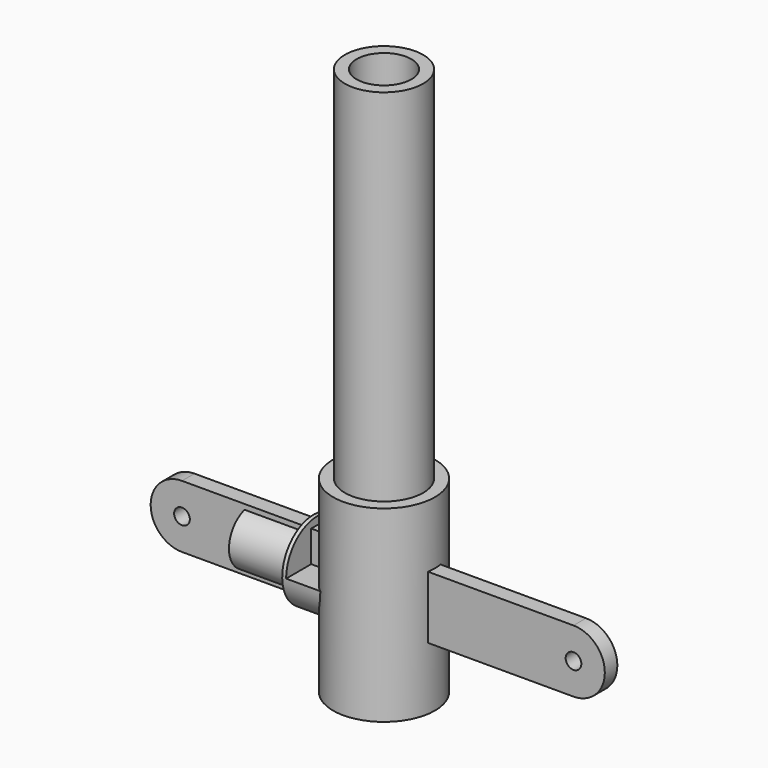
from build123d import *

# Parameters (mm, degrees)
F0_R      = 5
F1_DEPTH  = 58
F2_R      = 3.5
F3_DEPTH  = 55
F4_R      = 1
F5_DEPTH  = 1
F8_W      = 8.5
F8_H      = 6
F9_DEPTH  = 5
F10_R     = 1
F11_DEPTH = 5.001
F12_R     = 6.5
F12_R_2   = 5
F13_DEPTH = 12


with BuildPart() as f1:
    # F0 (on Top) → F1 (new body)
    with BuildSketch(Plane.XY):
        Circle(F0_R)
    extrude(amount=F1_DEPTH)

    # F2 (on face) → F3 (cut)
    with BuildSketch(Plane.XY.offset(58)):
        Circle(F2_R)
    extrude(amount=-F3_DEPTH, mode=Mode.SUBTRACT)


with BuildPart() as f5:
    # F4 (on Front) → F5 (new body, symmetric)
    with BuildSketch(Plane.XZ):
        with BuildLine():
            Line((25, 4), (-25, 4))
            ThreePointArc((-25, 4), (-29, 0), (-25, -4))
            Line((-25, -4), (25, -4))
            ThreePointArc((25, -4), (29, 0), (25, 4))
        make_face()
        with Locations((-25, 0)):
            Circle(F4_R, mode=Mode.SUBTRACT)
        with Locations((25, 0)):
            Circle(F4_R, mode=Mode.SUBTRACT)
    extrude(amount=F5_DEPTH, both=True)


with BuildPart() as f7:
    # F6 (on Front) → F7 (revolve)
    with BuildSketch(Plane.XZ):
        Polygon((-17, 0), (0, 0), (0, 5), (-9, 5), (-9, 3.5), (-17, 3.5), align=None)
    revolve(axis=Axis((-8.5, 0, 0), (1, 0, 0)))

    # F8 (on Front) → F9 (cut, symmetric)
    with BuildSketch(Plane.XZ):
        with Locations((-4.25, 3)):
            Rectangle(F8_W, F8_H)
    extrude(amount=F9_DEPTH, both=True, mode=Mode.SUBTRACT)

    # F10 (on face) → F11 (cut, through all)
    with BuildSketch(Plane.XY):
        with Locations((-4, 0)):
            Circle(F10_R)
    extrude(amount=-F11_DEPTH, mode=Mode.SUBTRACT)


with BuildPart() as f13:
    # F12 (on Top) → F13 (new body, symmetric)
    with BuildSketch(Plane.XY):
        Circle(F12_R)
        Circle(F12_R_2, mode=Mode.SUBTRACT)
    extrude(amount=F13_DEPTH, both=True)


solid = Compound([f1.part, f5.part, f7.part, f13.part])
